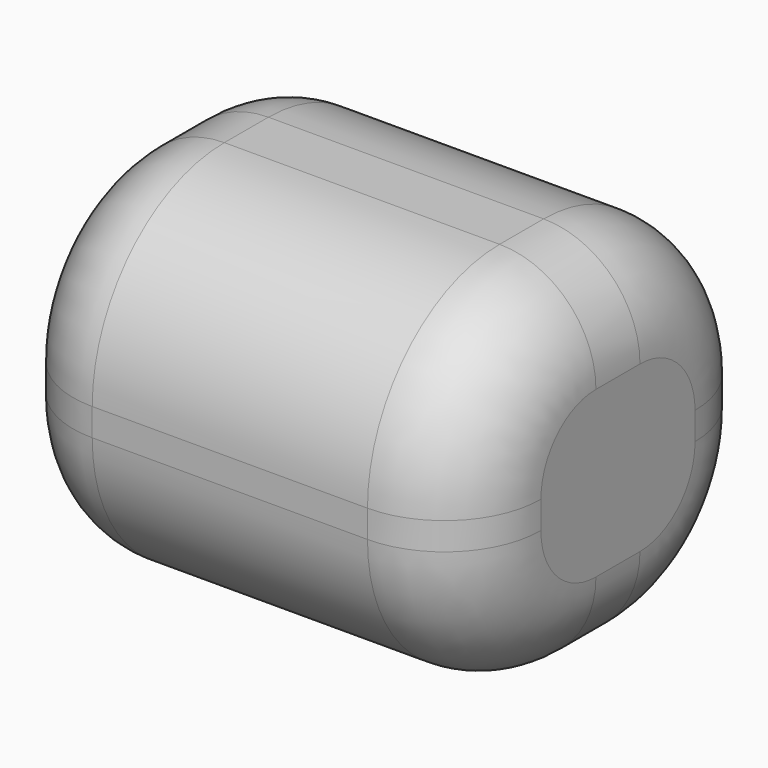
from build123d import *

# Parameters (mm, degrees)
F0_W     = 43.18
F0_H     = 33.02
F1_DEPTH = 17.78
F2_R     = 15.24
F3_R     = 15.24
F4_R     = 8.89


with BuildPart() as f1:
    # F0 (on Front) → F1 (new body, symmetric)
    with BuildSketch(Plane.XZ):
        Rectangle(F0_W, F0_H)
    extrude(amount=F1_DEPTH, both=True)

    # F2
    f2_edges = [f1.edges().sort_by_distance(p)[0] for p in [
        (0, -17.78, 16.51),
    ]]
    fillet(f2_edges, radius=F2_R)

    # F3
    f3_edges = [f1.edges().sort_by_distance(p)[0] for p in [
        (0, -17.78, -16.51),
        (0, 17.78, -16.51),
        (0, 17.78, 16.51),
    ]]
    fillet(f3_edges, radius=F3_R)

    # F4
    f4_edges = [f1.edges().sort_by_distance(p)[0] for p in [
        (21.59, -13.316307, 12.046307),
        (-21.59, -13.316307, -12.046307),
    ]]
    fillet(f4_edges, radius=F4_R)


solid = f1.part
